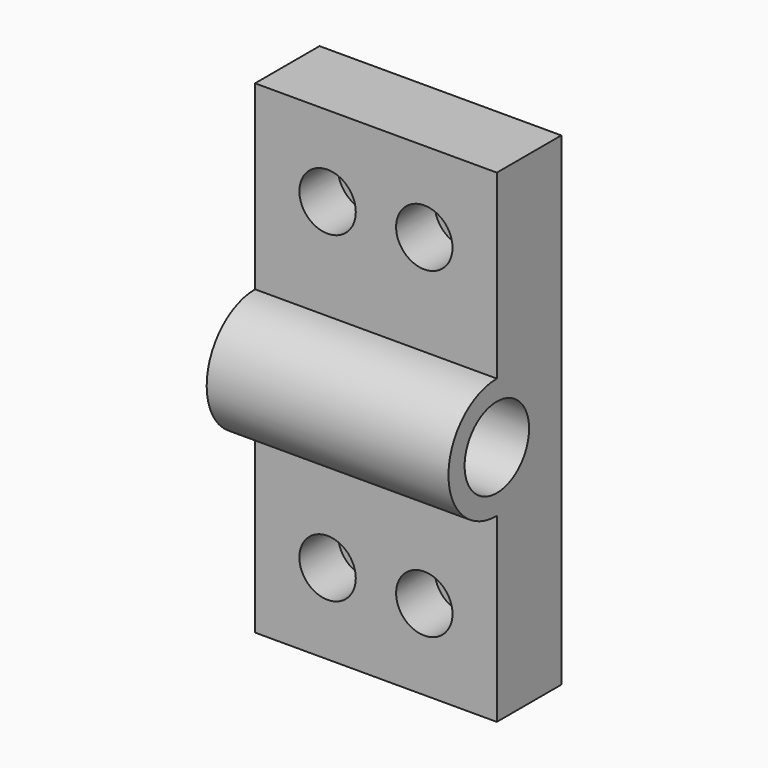
from build123d import *

# Parameters (mm, degrees)
F0_W     = 38.1
F0_H     = 76.2
F1_DEPTH = 12.7
F2_R     = 9.525
F3_DEPTH = 38.1
F4_R     = 6.35
F5_DEPTH = 40.386
F6_R     = 2.54
F7_DEPTH = 25.4
F8_R     = 4.445
F9_DEPTH = 7.62


with BuildPart() as f1:
    # F0 (on Front) → F1 (new body)
    with BuildSketch(Plane.XZ):
        Rectangle(F0_W, F0_H)
    extrude(amount=F1_DEPTH)

    # F2 (on face) → F3 (join)
    with BuildSketch(Plane.YZ.offset(19.05)):
        with Locations((-12.7, 0)):
            Circle(F2_R)
    extrude(amount=-F3_DEPTH)

    # F4 (on face) → F5 (cut)
    with BuildSketch(Plane.YZ.offset(19.05)):
        with Locations((-12.7, 0)):
            Circle(F4_R)
    extrude(amount=-F5_DEPTH, mode=Mode.SUBTRACT)

    # F6 (on face) → F7 (cut)
    with BuildSketch(Plane.XZ.offset(12.7)):
        with Locations((-7.62, 25.4)):
            Circle(F6_R)
        with Locations((7.62, 25.4)):
            Circle(F6_R)
        with Locations((-7.62, -25.4)):
            Circle(F6_R)
        with Locations((7.62, -25.4)):
            Circle(F6_R)
    extrude(amount=-F7_DEPTH, mode=Mode.SUBTRACT)

    # F8 (on face) → F9 (cut)
    with BuildSketch(Plane.XZ.offset(12.7)):
        with Locations((-7.62, 25.4)):
            Circle(F8_R)
        with Locations((7.62, 25.4)):
            Circle(F8_R)
        with Locations((-7.62, -25.4)):
            Circle(F8_R)
        with Locations((7.62, -25.4)):
            Circle(F8_R)
    extrude(amount=-F9_DEPTH, mode=Mode.SUBTRACT)


solid = f1.part
